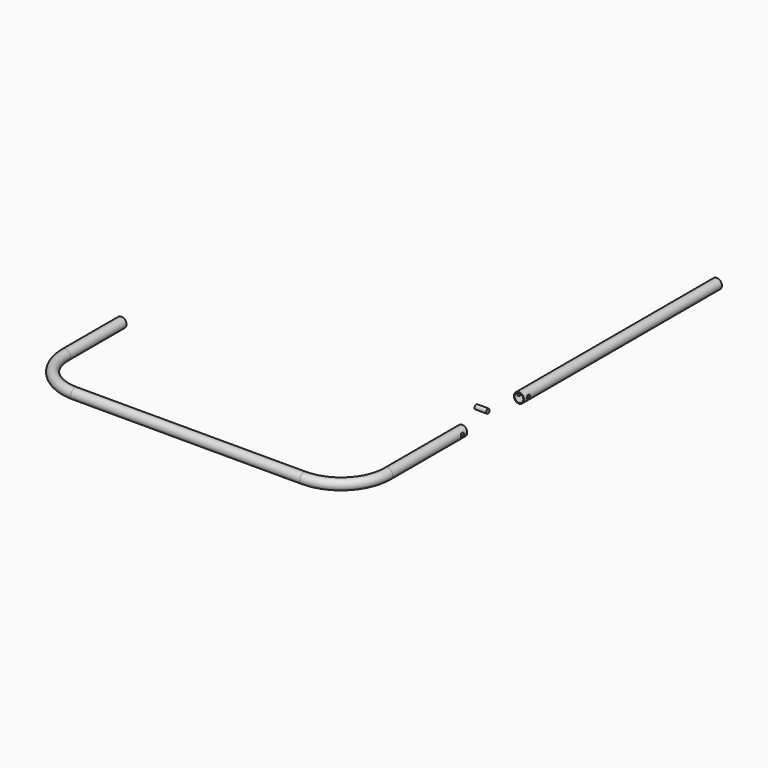
from build123d import *

# Parameters (mm, degrees)
F1_R      = 11.1125
F1_R_2    = 9.525
F5_R      = 11.1125
F5_R_2    = 9.525
F7_R      = 4.7625
F7_R_2    = 4.333305
F8_DEPTH  = 12.7
F9_R      = 4.7625
F10_DEPTH = 25.4


with BuildPart() as f2:
    # F2: sweep along a path in F0
    with BuildLine(Plane.XY) as f2_path:
        Line((0, 0), (0, -203.2))
        ThreePointArc((0, -203.2), (-29.757951, -275.042049), (-101.6, -304.8))
        Line((-101.6, -304.8), (-601.345, -304.8))
        ThreePointArc((-601.345, -304.8), (-673.187049, -275.042049), (-702.945, -203.2))
        Line((-702.945, -203.2), (-702.945, -50.8))
    # F1 (on Front) → F2 (sweep)
    with BuildSketch(Plane.XZ):
        Circle(F1_R)
        Circle(F1_R_2, mode=Mode.SUBTRACT)
    sweep(path=f2_path.line)


with BuildPart() as f6:
    # F6: sweep along a path in F3
    with BuildLine(Plane.XY) as f6_path:
        Line((0, 154.859155), (0, 694.789588))
    # F5 (on plane+point) → F6 (sweep)
    with BuildSketch(Plane.XZ.offset(-154.859155)):
        Circle(F5_R)
        Circle(F5_R_2, mode=Mode.SUBTRACT)
    sweep(path=f6_path.line)


with BuildPart() as f8_tool:
    # F7 (on Right) → F8 (new body, symmetric)
    with BuildSketch(Plane.YZ):
        with Locations((-12.7, 0)):
            Circle(F7_R)
        with Locations((167.559155, 0)):
            Circle(F7_R_2)
    extrude(amount=F8_DEPTH, both=True)


with BuildPart() as f2_1:
    add(f2.part)

    # F8: cut by f8_tool
    add(f8_tool.part, mode=Mode.SUBTRACT)


with BuildPart() as f6_1:
    add(f6.part)

    # F8: cut by f8_tool
    add(f8_tool.part, mode=Mode.SUBTRACT)


with BuildPart() as f10:
    # F9 (on Right) → F10 (new body)
    with BuildSketch(Plane.YZ):
        with Locations((38.583543, 30.035984)):
            Circle(F9_R)
    extrude(amount=F10_DEPTH)


solid = Compound([f2_1.part, f6_1.part, f10.part])
